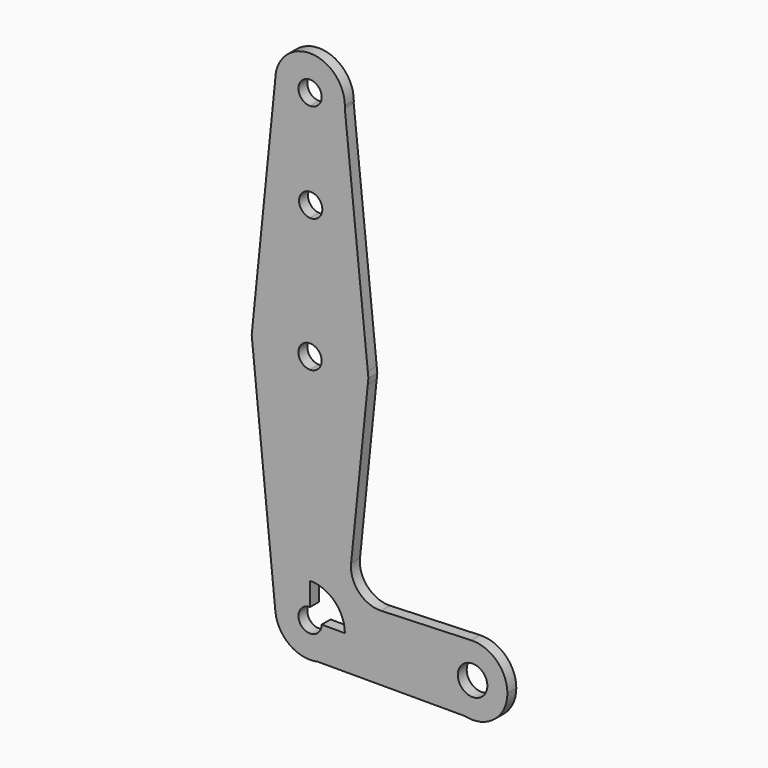
from build123d import *

# Parameters (mm, degrees)
F1_DEPTH = 3.048


with BuildPart() as f1:
    # F0 (on Front) → F1 (new body)
    with BuildSketch(Plane.XZ):
        with BuildLine():
            ThreePointArc((9.5065780115, 62.9078855591), (9.5203933889, 63.203799527), (9.525, 63.5))
            ThreePointArc((9.525, 63.5), (0, 73.025), (-9.525, 63.5))
            ThreePointArc((-9.525, 63.5), (-6.7351920908, 56.7648079092), (0, 53.975))
            ThreePointArc((0, 53.975), (6.5224893618, 56.5586199121), (9.5065780115, 62.9078855591))
        make_face()
        with BuildLine():
            ThreePointArc((3.175, 63.5), (2.2450640303, 61.2549359697), (0, 60.325))
            ThreePointArc((0, 60.325), (-2.2450640303, 65.7450640303), (3.175, 63.5))
        make_face(mode=Mode.SUBTRACT)
        with BuildLine():
            ThreePointArc((0, 53.975), (-6.7351920908, 56.7648079092), (-9.525, 63.5))
            Line((-9.525, 63.5), (-15.7942028272, 1.5996193463))
            ThreePointArc((-15.7942028272, 1.5996193463), (-10.6447561709, 11.7772998205), (0, 15.875))
            Line((0, 15.875), (0, 33.3548388816))
            ThreePointArc((0, 33.3548388816), (-2.9954644809, 36.524758754), (0, 39.6946786264))
            Line((0, 39.6946786264), (0, 53.975))
        make_face()
        with BuildLine():
            Line((15.7921655349, 1.6196088165), (9.5065780115, 62.9078855591))
            ThreePointArc((9.5065780115, 62.9078855591), (6.5224893618, 56.5586199121), (0, 53.975))
            Line((0, 53.975), (0, 39.6946786264))
            ThreePointArc((0, 39.6946786264), (2.360200524, 38.832425354), (3.3545355191, 36.524758754))
            ThreePointArc((3.3545355191, 36.524758754), (2.360200524, 34.217092154), (0, 33.3548388816))
            Line((0, 33.3548388816), (0, 15.875))
            ThreePointArc((0, 15.875), (10.6373007628, 11.7840340071), (15.7921655349, 1.6196088165))
        make_face()
        with BuildLine():
            ThreePointArc((0, 15.875), (-10.6447561709, 11.7772998205), (-15.7942028272, 1.5996193463))
            ThreePointArc((-15.7942028272, 1.5996193463), (-11.7772998205, -10.6447561709), (0, -15.875))
            Line((0, -15.875), (0, -3.175))
            ThreePointArc((0, -3.175), (-3.175, 0), (0, 3.175))
            Line((0, 3.175), (0, 15.875))
        make_face()
        with BuildLine():
            ThreePointArc((0, -15.875), (-11.7772998205, -10.6447561709), (-15.7942028272, 1.5996193463))
            Line((-15.7942028272, 1.5996193463), (-15.9562105245, 0))
            Line((-15.9562105245, 0), (-9.477237265, -64.4526798109))
            ThreePointArc((-9.477237265, -64.4526798109), (-7.0639896729, -57.1105027662), (0, -53.975))
            Line((0, -53.975), (0, -15.875))
        make_face()
        with BuildLine():
            Line((15.9582689646, 0), (15.7921655349, 1.6196088165))
            ThreePointArc((15.7921655349, 1.6196088165), (15.8542778591, 0.8108628532), (15.875, 0))
            ThreePointArc((15.875, 0), (15.8542778638, -0.8108627621), (15.7921655535, -1.6196086349))
            Line((15.7921655535, -1.6196086349), (15.9582689646, 0))
        make_face()
        with BuildLine():
            ThreePointArc((15.875, 0), (15.8542778591, 0.8108628532), (15.7921655349, 1.6196088165))
            ThreePointArc((15.7921655349, 1.6196088165), (10.6373007628, 11.7840340071), (0, 15.875))
            Line((0, 15.875), (0, 3.175))
            ThreePointArc((0, 3.175), (2.2450640303, 2.2450640303), (3.175, 0))
            ThreePointArc((3.175, 0), (2.2450640303, -2.2450640303), (0, -3.175))
            Line((0, -3.175), (0, -15.875))
            ThreePointArc((0, -15.875), (10.6373008306, -11.784033946), (15.7921655535, -1.6196086349))
            ThreePointArc((15.7921655535, -1.6196086349), (15.8542778638, -0.8108627621), (15.875, 0))
        make_face()
        with BuildLine():
            ThreePointArc((15.7921655535, -1.6196086349), (10.6373008306, -11.784033946), (0, -15.875))
            Line((0, -15.875), (0, -53.975))
            ThreePointArc((0, -53.975), (6.7351920908, -56.7648079092), (9.525, -63.5))
            Line((9.525, -63.5), (34.925, -63.5))
            ThreePointArc((34.925, -63.5), (37.5928448839, -56.8890205935), (44.1019131157, -53.9813624651))
            Line((44.1019131157, -53.9813624651), (19.4267672074, -54.8837074307))
            ThreePointArc((19.4267672074, -54.8837074307), (13.3331276381, -52.3729393353), (11.2275141925, -46.1277178302))
            Line((11.2275141925, -46.1277178302), (15.7921655535, -1.6196086349))
        make_face()
        with BuildLine():
            Line((0, -60.325), (0, -53.975))
            ThreePointArc((0, -53.975), (-7.0639896729, -57.1105027662), (-9.477237265, -64.4526798109))
            ThreePointArc((-9.477237265, -64.4526798109), (-5.561959707, -71.2324141908), (2.1109756448, -72.7881325802))
            ThreePointArc((2.1109756448, -72.7881325802), (7.4442148013, -69.4421621479), (9.525, -63.5))
            Line((9.525, -63.5), (3.175, -63.5))
            ThreePointArc((3.175, -63.5), (-2.2450640303, -65.7450640303), (0, -60.325))
        make_face()
        with BuildLine():
            Line((34.925, -63.5), (9.525, -63.5))
            ThreePointArc((9.525, -63.5), (7.4442148013, -69.4421621479), (2.1109756448, -72.7881325802))
            Line((2.1109756448, -72.7881325802), (42.3390243552, -72.7881325802))
            ThreePointArc((42.3390243552, -72.7881325802), (37.0057851987, -69.4421621479), (34.925, -63.5))
        make_face()
        with BuildLine():
            ThreePointArc((44.1019131157, -53.9813624651), (37.5928448839, -56.8890205935), (34.925, -63.5))
            ThreePointArc((34.925, -63.5), (37.0057851987, -69.4421621479), (42.3390243552, -72.7881325802))
            Line((42.3390243552, -72.7881325802), (46.5609756448, -72.7881325802))
            ThreePointArc((46.5609756448, -72.7881325802), (51.8942148013, -69.4421621479), (53.975, -63.5))
            ThreePointArc((53.975, -63.5), (51.0609794065, -56.6428448839), (44.1019131157, -53.9813624651))
        make_face()
        with BuildLine():
            ThreePointArc((48.4879165102, -63.5), (44.45, -67.5379165102), (40.4120834898, -63.5))
            ThreePointArc((40.4120834898, -63.5), (44.45, -59.4620834898), (48.4879165102, -63.5))
        make_face(mode=Mode.SUBTRACT)
        with BuildLine():
            Line((46.5609756448, -72.7881325802), (42.3390243552, -72.7881325802))
            ThreePointArc((42.3390243552, -72.7881325802), (44.45, -73.025), (46.5609756448, -72.7881325802))
        make_face()
        with BuildLine():
            ThreePointArc((0, 53.975), (-6.7351920908, 56.7648079092), (-9.525, 63.5))
            Line((-9.525, 63.5), (-15.7942028272, 1.5996193463))
            ThreePointArc((-15.7942028272, 1.5996193463), (-10.6447561709, 11.7772998205), (0, 15.875))
            Line((0, 15.875), (0, 33.3548388816))
            ThreePointArc((0, 33.3548388816), (-2.9954644809, 36.524758754), (0, 39.6946786264))
            Line((0, 39.6946786264), (0, 53.975))
        make_face()
    extrude(amount=F1_DEPTH)


solid = f1.part
